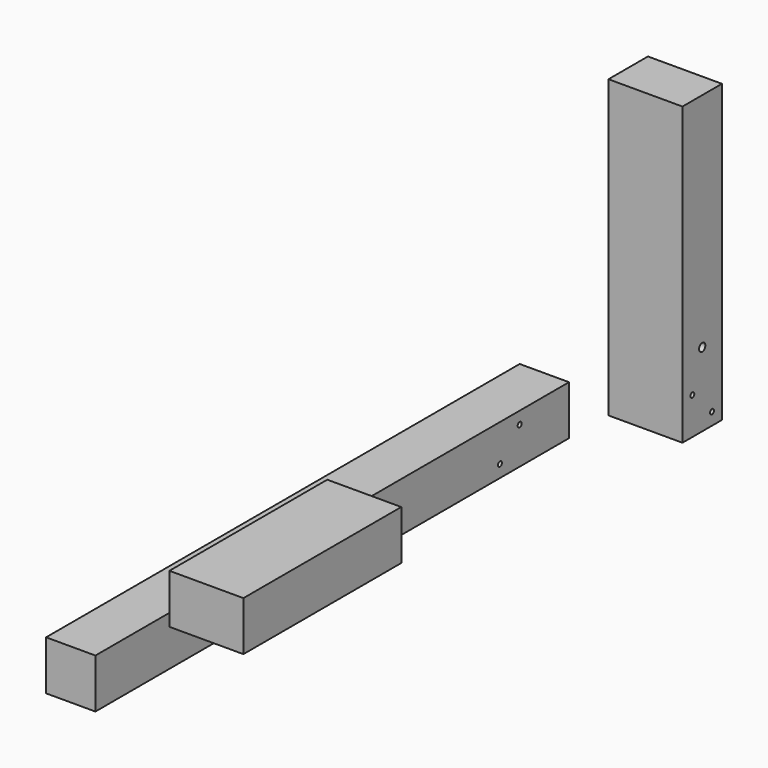
from build123d import *

# Parameters (mm, degrees)
F0_W     = 400
F0_H     = 100
F3_DEPTH = 423
F0_W_2   = 1200
F0_W_3   = 20
F0_H_2   = 20
F0_R     = 5
F0_W_4   = 100
F0_H_3   = 650
F0_R_2   = 8
F1_W     = 150
F1_H     = 100
F1_W_2   = 100
F1_H_2   = 1200
F1_R     = 5
F1_H_3   = 400
F4_DEPTH = 1000
F5_DEPTH = 1520


with BuildPart() as f3:
    # F0 (on Right) → F3 (new body, symmetric)
    with BuildSketch(Plane.YZ):
        with Locations((-1200, 250)):
            Rectangle(F0_W, F0_H)
    extrude(amount=F3_DEPTH, both=True)


with BuildPart() as f3b:
    # F0 (on Right) → F3, piece 2 (new body, symmetric)
    with BuildSketch(Plane.YZ):
        with Locations((-800, 50)):
            Rectangle(F0_W_2, F0_H)
        with Locations((-375, 25)):
            Rectangle(F0_W_3, F0_H_2, mode=Mode.SUBTRACT)
        with Locations((-325, 75)):
            Rectangle(F0_W_3, F0_H_2, mode=Mode.SUBTRACT)
        with Locations((-325, 75)):
            Rectangle(F0_W_3, F0_H_2)
        with Locations((-325, 75)):
            Circle(F0_R, mode=Mode.SUBTRACT)
        with Locations((-375, 25)):
            Rectangle(F0_W_3, F0_H_2)
        with Locations((-375, 25)):
            Circle(F0_R, mode=Mode.SUBTRACT)
    extrude(amount=F3_DEPTH, both=True)


with BuildPart() as f3c:
    # F0 (on Right) → F3, piece 3 (new body, symmetric)
    with BuildSketch(Plane.YZ):
        with Locations((-50, 325)):
            Rectangle(F0_W_4, F0_H_3)
        with Locations((-25, 25)):
            Circle(F0_R, mode=Mode.SUBTRACT)
        with Locations((-75, 75)):
            Circle(F0_R, mode=Mode.SUBTRACT)
        with Locations((-50, 150)):
            Circle(F0_R_2, mode=Mode.SUBTRACT)
    extrude(amount=F3_DEPTH, both=True)


with BuildPart() as f4_tool:
    # F1 (on Top) → F4 (new body)
    with BuildSketch(Plane.XY):
        with Locations((75, -50)):
            Rectangle(F1_W, F1_H)
        with Locations((-50, -800)):
            Rectangle(F1_W_2, F1_H_2)
        with Locations((-50, -850)):
            Circle(F1_R, mode=Mode.SUBTRACT)
        with Locations((-50, -750)):
            Circle(F1_R, mode=Mode.SUBTRACT)
        with Locations((225, -1200)):
            Rectangle(F1_W, F1_H_3)
    extrude(amount=F4_DEPTH)


with BuildPart() as f3_1:
    add(f3.part)

    # F4: intersect by f4_tool
    add(f4_tool.part, mode=Mode.INTERSECT)


with BuildPart() as f3b_1:
    add(f3b.part)

    # F4: intersect by f4_tool
    add(f4_tool.part, mode=Mode.INTERSECT)


with BuildPart() as f3c_1:
    add(f3c.part)

    # F4: intersect by f4_tool
    add(f4_tool.part, mode=Mode.INTERSECT)


with BuildPart() as f5_tool:
    # F2 (on Front) → F5 (new body)
    with BuildSketch(Plane.XZ):
        Polygon((-100, 0), (0, 0), (150, 0), (150, 200), (300, 200), (300, 300), (150, 300), (150, 600), (0, 600), (0, 100), (-100, 100), align=None)
    extrude(amount=F5_DEPTH)


with BuildPart() as f3_2:
    add(f3_1.part)

    # F5: intersect by f5_tool
    add(f5_tool.part, mode=Mode.INTERSECT)


with BuildPart() as f3b_2:
    add(f3b_1.part)

    # F5: intersect by f5_tool
    add(f5_tool.part, mode=Mode.INTERSECT)


with BuildPart() as f3c_2:
    add(f3c_1.part)

    # F5: intersect by f5_tool
    add(f5_tool.part, mode=Mode.INTERSECT)


solid = Compound([f3_2.part, f3b_2.part, f3c_2.part])
